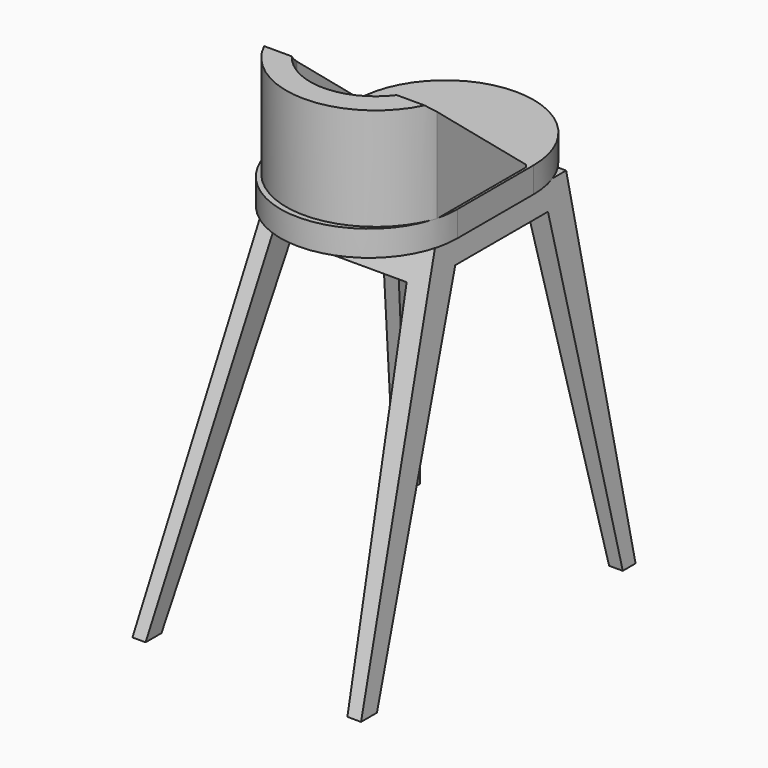
from build123d import *

# Parameters (mm, degrees)
PAD_DEPTH       = 450
POCKET_DEPTH    = 669.832754
POCKET001_DEPTH = 669.832754
PAD001_DEPTH    = 50
PAD002_DEPTH    = 200
POCKET002_DEPTH = 446.248375


with BuildPart() as part:
    # Sketch → Pad (new body)
    with BuildSketch(Plane.YZ):
        Polygon((0, 0), (-93.755817, 693.692905), (-413.044342, 693.692905), (-669.831754, 0), (-631.063619, 0), (-369.641988, 644.527666), (-143.466095, 644.527666), (-31.204716, 0), align=None)
    extrude(amount=PAD_DEPTH)

    # Sketch001 → Pocket (cut, through all)
    with BuildSketch(Plane.XZ):
        Polygon((0, 0), (68.653915, 756.659241), (-58.010685, 756.659241), (-58.010685, 0), align=None)
        Polygon((446.247375, 0), (380.038452, 758.557922), (486.73526, 758.557922), (486.73526, 0), align=None)
    extrude(amount=POCKET_DEPTH, mode=Mode.SUBTRACT)

    # Sketch002 → Pocket001 (cut, through all)
    with BuildSketch(Plane.XZ):
        Polygon((15.741308, -101.116302), (87.504074, 629.326477), (348.92572, 629.326477), (430.940308, -101.116302), align=None)
    extrude(amount=POCKET001_DEPTH, mode=Mode.SUBTRACT)

    # Sketch003 (on Face2 of Pocket001) → Pad001 (join)
    with BuildSketch(Plane(origin=(0, 0, 693.692905), x_dir=(0, -1, 0), z_dir=(0, 0, 1))):
        with BuildLine():
            ThreePointArc((186.040695, 396.127842), (13.348888, 223.436035), (186.040695, 50.744228))
            Line((186.040695, 50.744228), (371.77124, 50.744228))
            ThreePointArc((371.77124, 50.744228), (544.463047, 223.436035), (371.77124, 396.127842))
            Line((186.040695, 396.127842), (371.77124, 396.127842))
        make_face()
    extrude(amount=PAD001_DEPTH)

    # Sketch004 (on Face22 of Pad001) → Pad002 (join)
    with BuildSketch(Plane(origin=(0, 0, 743.692905), x_dir=(0, -1, 0), z_dir=(0, 0, 1))):
        with BuildLine():
            ThreePointArc((415.269303, 61.142208), (533.592428, 226.236558), (415.268147, 391.330079))
            Line((415.268147, 391.330079), (199.105545, 391.330079))
            Line((199.105545, 391.330079), (199.105545, 347.998))
            Line((199.105545, 347.998), (397.824581, 347.998))
            ThreePointArc((400.528442, 105.363647), (486.971795, 227.659194), (397.824581, 347.998))
            Line((400.528442, 105.363647), (196.068253, 105.363647))
            Line((196.068253, 105.363647), (196.068253, 61.142208))
            Line((196.068253, 61.142208), (415.269303, 61.142208))
        make_face()
    extrude(amount=PAD002_DEPTH)

    # Sketch006 → Pocket002 (cut, through all)
    with BuildSketch(Plane.YZ):
        Polygon((-193.693634, 744.098999), (-545.720642, 1034.452026), (-176.155548, 1034.452026), (-176.155548, 744.098999), align=None)
    extrude(amount=POCKET002_DEPTH, mode=Mode.SUBTRACT)


solid = part.part
